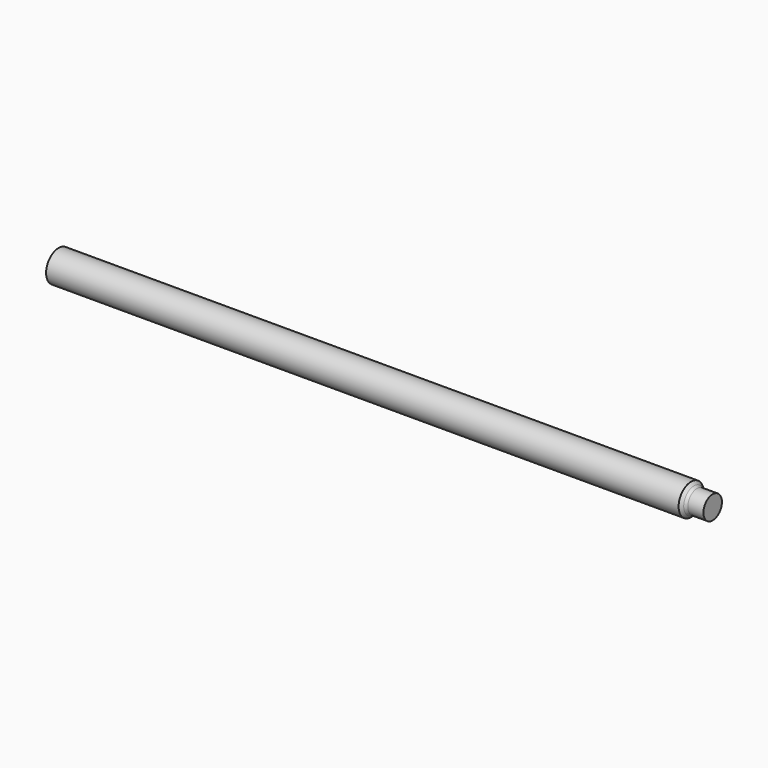
from build123d import *

# Parameters (mm, degrees)
F2_R = 10


with BuildPart() as f1:
    # F0 (on Front) → F1 (revolve)
    with BuildSketch(Plane.XZ):
        Polygon((1450.6, 35.9), (0, 35.9), (0, 24.07958371), (0, 0), (1500, 0), (1500, 26.5), (1460, 26.5), align=None)
    revolve(axis=Axis((750, 0, 0), (1, 0, 0)))

    # F2
    f2_edges = [f1.edges().sort_by_distance(p)[0] for p in [
        (1460, 0, -26.5),
    ]]
    fillet(f2_edges, radius=F2_R)


solid = f1.part
